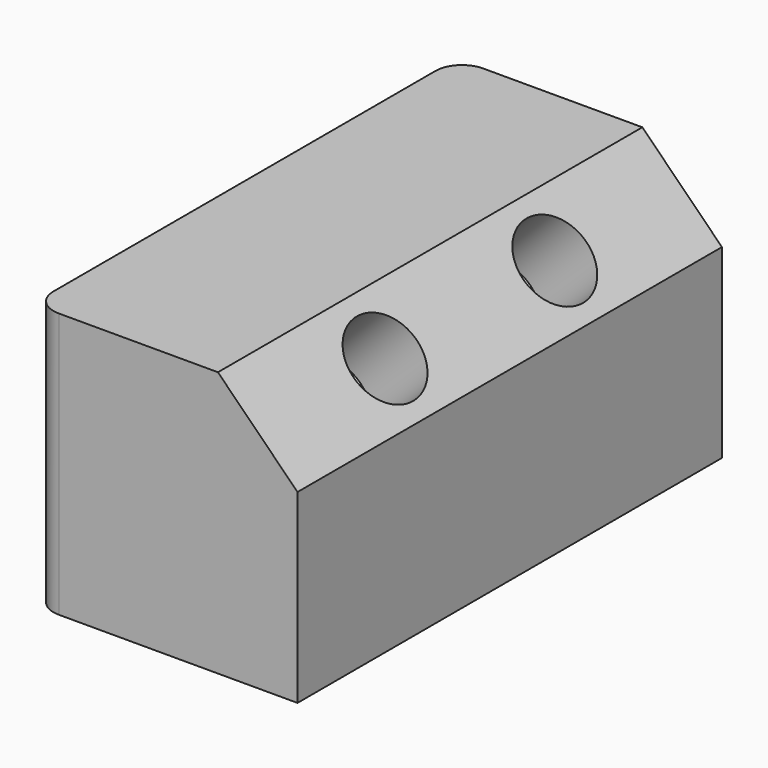
from build123d import *

# Parameters (mm, degrees)
F0_W     = 50
F0_H     = 100
F1_DEPTH = 50
F2_SIZE2 = 15
F2_SIZE  = 15
F4_D     = 15
F4_DEPTH = 15
F4_TIP   = 4.5064546427
F5_R     = 5
F6_R     = 5


with BuildPart() as f1:
    # F0 (on Top) → F1 (new body)
    with BuildSketch(Plane.XY):
        with Locations((25, 50)):
            Rectangle(F0_W, F0_H)
    extrude(amount=F1_DEPTH)

    # F2
    f2_edges = [f1.edges().sort_by_distance(p)[0] for p in [
        (50, 50, 50),
    ]]
    chamfer(f2_edges, length=F2_SIZE, length2=F2_SIZE2)

    # F4
    with Locations(Plane(origin=(42.5, 0, 42.5), x_dir=(0, 1, 0), z_dir=(0.7071067812, 0, 0.7071067812))):
        with Locations((30, 0), (70, 0)):
            Hole(F4_D / 2, depth=F4_DEPTH)
            with Locations((0, 0, -(F4_DEPTH + F4_TIP / 2))):  # 118° drill point
                Cone(0, F4_D / 2, F4_TIP, mode=Mode.SUBTRACT)

    # F5
    f5_edges = [f1.edges().sort_by_distance(p)[0] for p in [
        (0, 100, 25),
    ]]
    fillet(f5_edges, radius=F5_R)

    # F6
    f6_edges = [f1.edges().sort_by_distance(p)[0] for p in [
        (0, 0, 25),
    ]]
    fillet(f6_edges, radius=F6_R)


solid = f1.part
